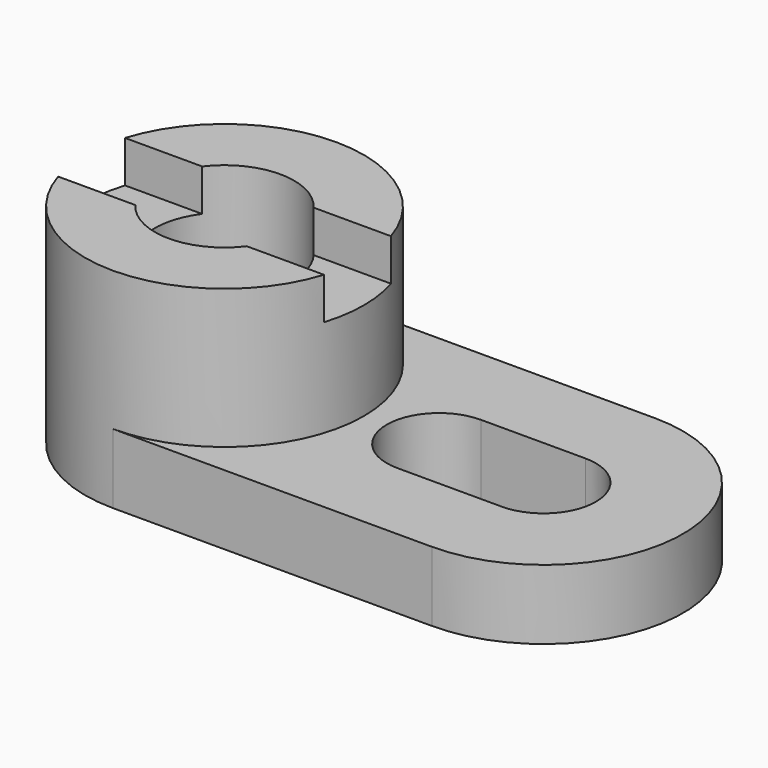
from build123d import *

# Parameters (mm, degrees)
F1_DEPTH = 10
F2_R     = 20
F3_DEPTH = 20
F4_R     = 10
F5_DEPTH = 58.8
F6_W     = 50
F6_H     = 12
F7_DEPTH = 6
F9_DEPTH = 10


with BuildPart() as f1:
    # F0 (on Top) → F1 (new body)
    with BuildSketch(Plane.XY):
        with BuildLine():
            Line((45.792472, 20), (0, 20))
            ThreePointArc((0, 20), (-20, 0), (0, -20))
            Line((0, -20), (45.792472, -20))
            ThreePointArc((45.792472, -20), (65.792472, 0), (45.792472, 20))
        make_face()
    extrude(amount=F1_DEPTH)

    # F2 (on face) → F3 (join)
    with BuildSketch(Plane.XY.offset(10)):
        Circle(F2_R)
    extrude(amount=F3_DEPTH)

    # F4 (on face) → F5 (cut)
    with BuildSketch(Plane.XY.offset(30)):
        Circle(F4_R)
    extrude(amount=-F5_DEPTH, mode=Mode.SUBTRACT)

    # F6 (on face) → F7 (cut)
    with BuildSketch(Plane.XY.offset(30)):
        Rectangle(F6_W, F6_H)
    extrude(amount=-F7_DEPTH, mode=Mode.SUBTRACT)

    # F8 (on face) → F9 (cut)
    with BuildSketch(Plane.XY.offset(10)):
        with BuildLine():
            Line((45.792472, 7.5), (30.792472, 7.5))
            ThreePointArc((30.792472, 7.5), (23.292472, 0), (30.792472, -7.5))
            Line((30.792472, -7.5), (45.792472, -7.5))
            ThreePointArc((45.792472, -7.5), (53.292472, 0), (45.792472, 7.5))
        make_face()
    extrude(amount=-F9_DEPTH, mode=Mode.SUBTRACT)


solid = f1.part
